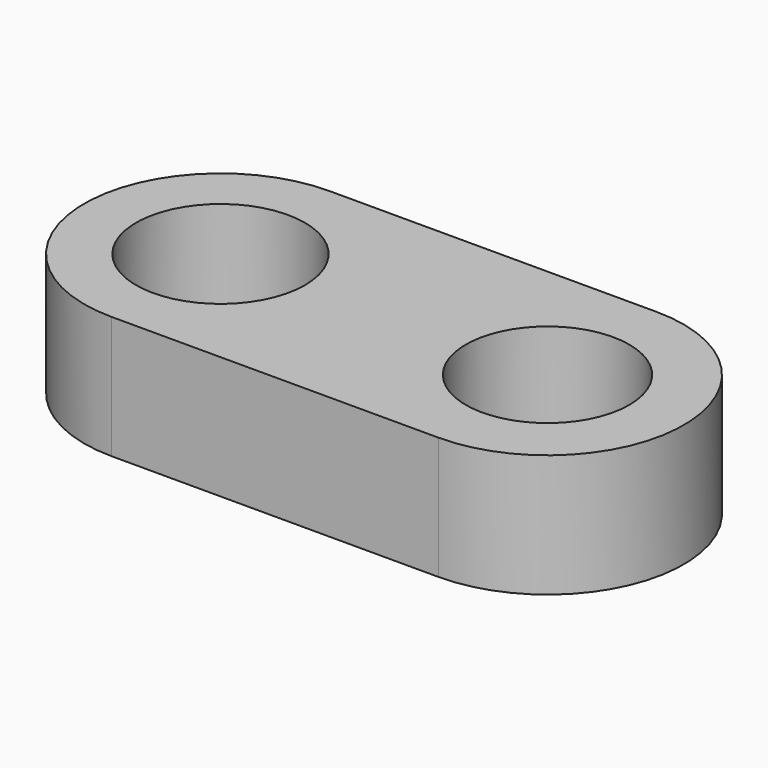
from build123d import *

# Parameters (mm, degrees)
F0_R     = 3.1
F0_R_2   = 3
F1_DEPTH = 4.5


with BuildPart() as f1:
    # F0 (on Top) → F1 (new body)
    with BuildSketch(Plane.XY):
        with BuildLine():
            ThreePointArc((0, 5), (-5, 0), (0, -5))
            Line((0, -5), (12, -5))
            ThreePointArc((12, -5), (17, 0), (12, 5))
            Line((12, 5), (0, 5))
        make_face()
        Circle(F0_R, mode=Mode.SUBTRACT)
        with Locations((12, 0)):
            Circle(F0_R_2, mode=Mode.SUBTRACT)
    extrude(amount=F1_DEPTH)


solid = f1.part
